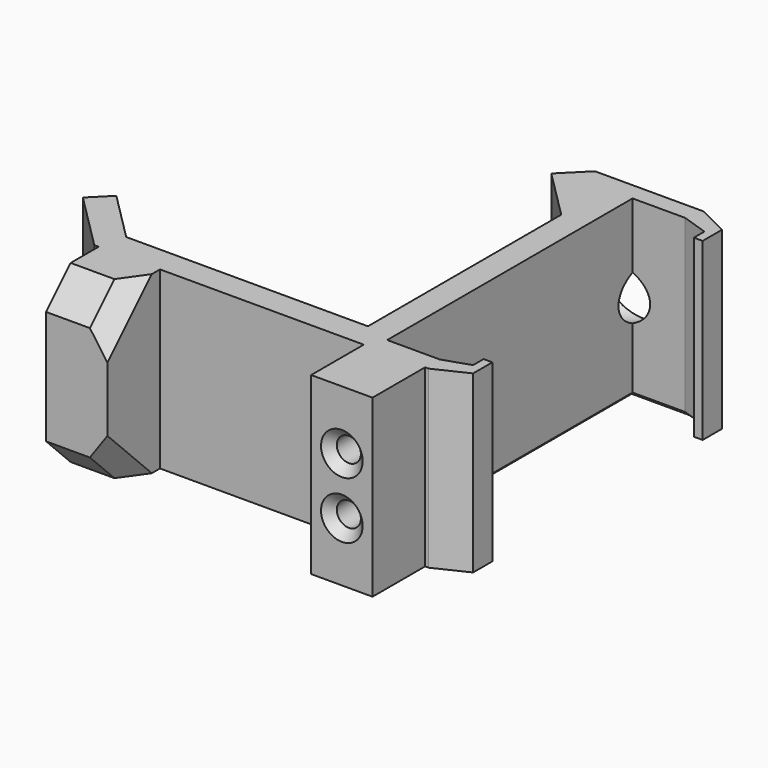
from build123d import *

# Parameters (mm, degrees)
CYLINDER003_R            = 3
CYLINDER003_DEPTH        = 10
PAD008_DEPTH             = 10
SKETCH032_R              = 1.625
POCKET023_DEPTH          = 55.910244
SKETCH033_W              = 20
SKETCH033_H              = 7
PAD009_DEPTH             = 7.5
SKETCH034_R              = 1.375
POCKET024_DEPTH          = 12
CHAMFER020_1_SIZE        = 3.5
CHAMFER020_2_SIZE        = 1
CHAMFER021_SIZE          = 0.5
CHAMFER022_SIZE          = 2
CLONE006_PITCH_ANGLE     = 90
CLONE006_PLACEMENT_ANGLE = 45.000049


with BuildPart() as boardbracketscrewheadcylinder:
    # Cylinder003 → Cylinder003 (new body)
    with BuildSketch(Plane(origin=(0, 0.5, 24), x_dir=(1, 0, 0), z_dir=(0, 0, 1))):
        Circle(CYLINDER003_R)
    extrude(amount=CYLINDER003_DEPTH)


with BuildPart() as clone006:
    # Sketch031 → Pad008 (new body, symmetric)
    with BuildSketch(Plane.YZ):
        Polygon((4.5, 21), (4.5, 24.911688), (-4.23971, 33.651398), (-7.975533, 34.909244), (-9.918525, 32.966252), (-9.211418, 32.259145), (-8.150758, 33.319805), (-5.32233, 31.905592), (-1.07969, 27.662951), (-25.828427, 2.914214), (-30.071068, 7.156854), (-31.485281, 9.985281), (-30.424621, 11.045942), (-31.131728, 11.753048), (-33.07472, 9.810056), (-31.714777, 5.972136), (-4.742641, -21), (4.5, -21), (4.5, -18), (-3.5, -18), (-23, 1.5), (-3.5, 21), align=None)
    extrude(amount=PAD008_DEPTH, both=True)

    # Sketch032 → Pocket023 (cut, through all)
    with BuildSketch(Plane.YX.offset(21)):
        with Locations((0.5, 0)):
            Circle(SKETCH032_R)
    extrude(amount=-POCKET023_DEPTH, mode=Mode.SUBTRACT)

    # Cut001: cut BoardBracketScrewHeadCylinder
    add(boardbracketscrewheadcylinder.part, mode=Mode.SUBTRACT)

    # Sketch033 → Pad009 (new body)
    with BuildSketch(Plane(origin=(0, -12.87132, -12.87132), x_dir=(1, 0, 0), z_dir=(0, -0.707107, -0.707107))):
        with Locations((0, 22.75)):
            Rectangle(SKETCH033_W, SKETCH033_H)
        with Locations((0, -7.5)):
            Rectangle(SKETCH033_W, SKETCH033_H)
    extrude(amount=PAD009_DEPTH)

    # Sketch034 → Pocket024 (cut)
    with BuildSketch(Plane(origin=(0, -18.174621, -18.174621), x_dir=(1, 0, 0), z_dir=(0, -0.707107, -0.707107))):
        with Locations((3.25, 22.75)):
            Circle(SKETCH034_R)
    pocket024 = extrude(amount=-POCKET024_DEPTH, mode=Mode.SUBTRACT)

    # Mirrored002: Pocket024 across Sketch034 V_Axis
    add(pocket024.mirror(Plane(origin=(0, -18.174621, -18.174621), x_dir=(0, -0.707107, -0.707107), z_dir=(1, 0, 0))), mode=Mode.SUBTRACT)

    # Chamfer020 1
    chamfer020_1_edges = [clone006.edges().sort_by_distance(p)[0] for p in [
        (-10, -12.87132, -23.477922),
        (10, -12.87132, -23.477922),
    ]]
    chamfer(chamfer020_1_edges, length=CHAMFER020_1_SIZE)

    # Chamfer020 2
    chamfer020_2_edges = [clone006.edges().sort_by_distance(p)[0] for p in [
        (-1.875, -34.2613, -2.087942),
        (1.875, -34.2613, -2.087942),
    ]]
    chamfer(chamfer020_2_edges, length=CHAMFER020_2_SIZE)

    # Chamfer021
    chamfer021_edges = [clone006.edges().sort_by_distance(p)[0] for p in [
        (10, -4.917893, -20.824747),
        (10, -0.12132, -21),
        (10, 4.5, -19.5),
        (10, 0.5, -18),
        (10, -13.25, -8.25),
        (10, -13.25, 11.25),
        (10, 0.5, 21),
        (10, 4.5, 22.955844),
        (10, -30.778175, 8.571068),
        (10, -27.949747, 5.035534),
        (10, -13.454058, 15.288582),
        (10, -3.20101, 29.784271),
        (10, -6.736544, 32.612698),
    ]]
    chamfer(chamfer021_edges, length=CHAMFER021_SIZE)

    # Chamfer022
    chamfer022_edges = [clone006.edges().sort_by_distance(p)[0] for p in [
        (8.25, -14.108757, -19.765611),
        (-8.25, -14.108757, -19.765611),
    ]]
    chamfer(chamfer022_edges, length=CHAMFER022_SIZE)


with BuildPart() as clone006_1:
    # Clone006 pitch: moved
    add(clone006.part.rotate(Axis((0, 0, 0), (0, 1, 0)), CLONE006_PITCH_ANGLE))


with BuildPart() as clone006_2:
    # Clone006 placement: moved
    add(clone006_1.part.moved(Location((-178, 2, -28))).rotate(Axis((-178, 2, -28), (0, 0, 1)), CLONE006_PLACEMENT_ANGLE))


solid = clone006_2.part
